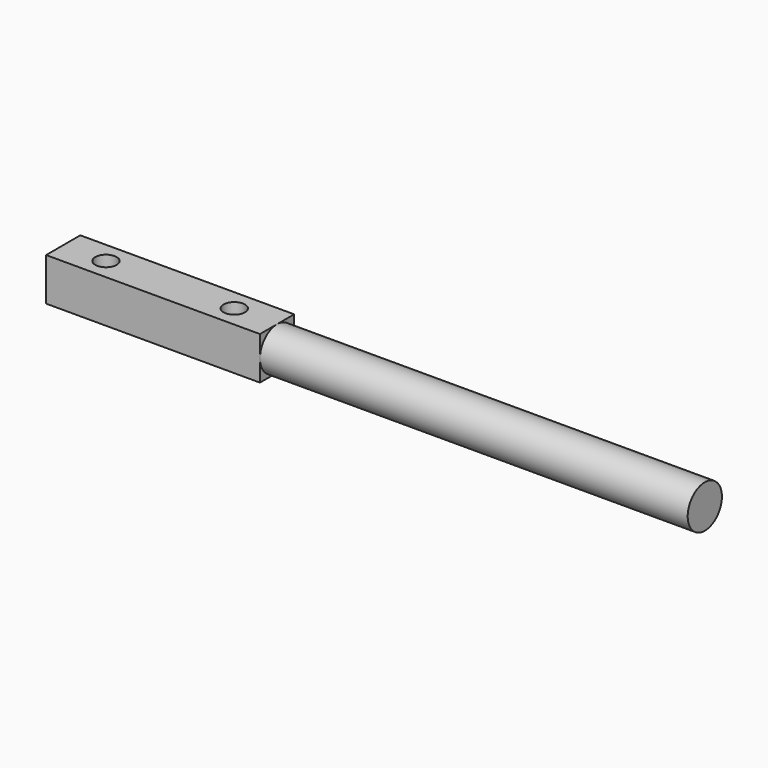
from build123d import *

# Parameters (mm, degrees)
F0_R     = 6.35
F1_DEPTH = 127
F2_W     = 12.7
F2_H     = 12.7
F3_DEPTH = 63.5
F4_R     = 3.175
F5_DEPTH = 12.701


with BuildPart() as f1:
    # F0 (on Right) → F1 (new body)
    with BuildSketch(Plane.YZ):
        Circle(F0_R)
    extrude(amount=F1_DEPTH)

    # F2 (on Right) → F3 (join)
    with BuildSketch(Plane.YZ):
        Rectangle(F2_W, F2_H)
    extrude(amount=-F3_DEPTH)

    # F4 (on face) → F5 (cut, through all)
    with BuildSketch(Plane.XY.offset(6.35)):
        with Locations((-50.8, 0)):
            Circle(F4_R)
        with Locations((-12.7, 0)):
            Circle(F4_R)
    extrude(amount=-F5_DEPTH, mode=Mode.SUBTRACT)


solid = f1.part
